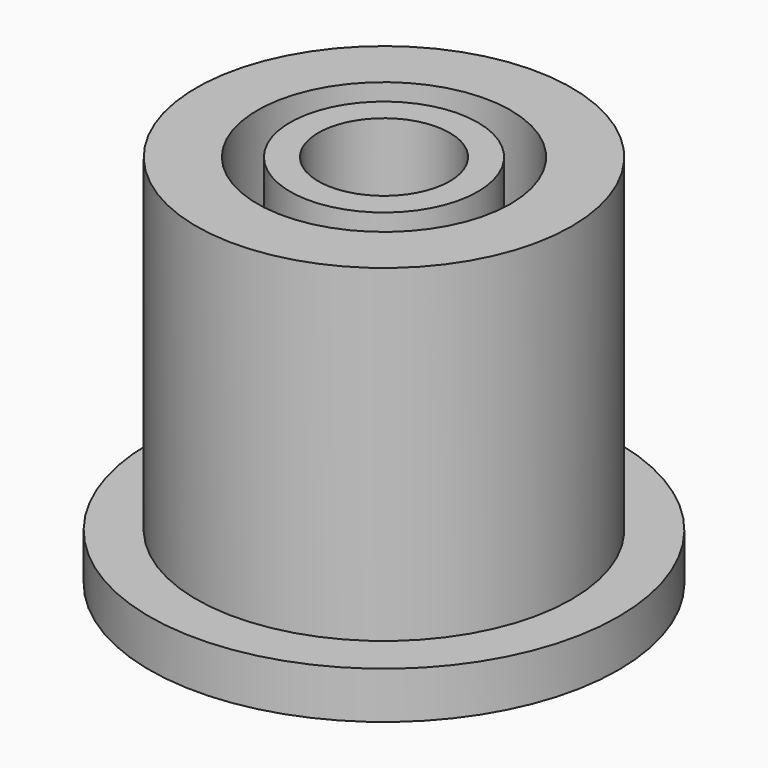
from build123d import *

# Parameters (mm, degrees)
F0_R     = 25
F0_R_2   = 20
F0_R_3   = 13.5
F0_R_4   = 10
F0_R_5   = 7
F1_DEPTH = 5
F2_DEPTH = 40
F3_DEPTH = 40


with BuildPart() as f1:
    # F0 (on Top) → F1 (new body)
    with BuildSketch(Plane.XY):
        Circle(F0_R)
        Circle(F0_R_2, mode=Mode.SUBTRACT)
        Circle(F0_R_2)
        Circle(F0_R_3, mode=Mode.SUBTRACT)
        Circle(F0_R_3)
        Circle(F0_R_4, mode=Mode.SUBTRACT)
        Circle(F0_R_4)
        Circle(F0_R_5, mode=Mode.SUBTRACT)
    extrude(amount=F1_DEPTH)

    # F0 (on Top) → F2 (join)
    with BuildSketch(Plane.XY):
        Circle(F0_R_2)
        Circle(F0_R_3, mode=Mode.SUBTRACT)
    extrude(amount=F2_DEPTH)

    # F0 (on Top) → F3 (join)
    with BuildSketch(Plane.XY):
        Circle(F0_R_4)
        Circle(F0_R_5, mode=Mode.SUBTRACT)
    extrude(amount=F3_DEPTH)


solid = f1.part
